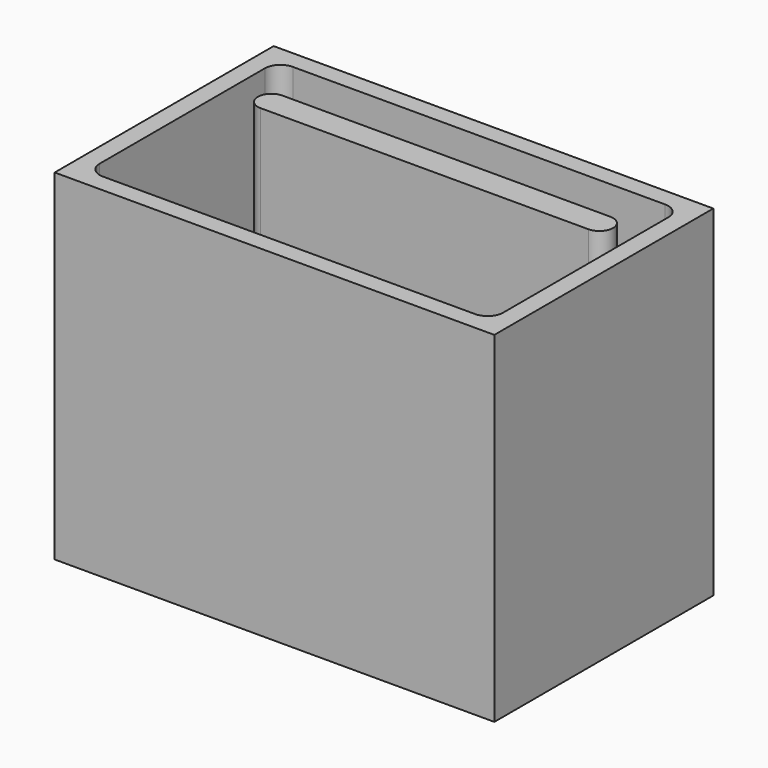
from build123d import *

# Parameters (mm, degrees)
F1_DEPTH = 109.728
F0_W     = 141.5915973485
F0_H     = 88.1492160261


with BuildPart() as f1:
    # F0 (on Top) → F1 (new body)
    with BuildSketch(Plane.XY):
        with BuildLine():
            Line((56.8992830813, 17.6471211016), (-48.7309582531, 17.6471211016))
            ThreePointArc((-48.7309582531, 17.6471211016), (-53.1181711704, 13.2599081844), (-48.7309582531, 8.8726952672))
            Line((-48.7309582531, 8.8726952672), (56.8992830813, 8.8726952672))
            ThreePointArc((56.8992830813, 8.8726952672), (61.2864959985, 13.2599081844), (56.8992830813, 17.6471211016))
        make_face()
    extrude(amount=F1_DEPTH)


with BuildPart() as f1b:
    # F0 (on Top) → F1, piece 2 (new body)
    with BuildSketch(Plane.XY):
        with Locations((3.5321135074, -6.7570824176)):
            Rectangle(F0_W, F0_H)
        with BuildLine():
            ThreePointArc((-61.4280216396, 26.4818620682), (-59.9635555455, 30.0173959741), (-56.4280216396, 31.4818620682))
            Line((-56.4280216396, 31.4818620682), (63.4922486544, 31.4818620682))
            ThreePointArc((63.4922486544, 31.4818620682), (67.0277825603, 30.0173959741), (68.4922486544, 26.4818620682))
            Line((68.4922486544, 26.4818620682), (68.4922486544, -39.9960269034))
            ThreePointArc((68.4922486544, -39.9960269034), (67.0277825603, -43.5315608093), (63.4922486544, -44.9960269034))
            Line((63.4922486544, -44.9960269034), (-56.4280216396, -44.9960269034))
            ThreePointArc((-56.4280216396, -44.9960269034), (-59.9635555455, -43.5315608093), (-61.4280216396, -39.9960269034))
            Line((-61.4280216396, -39.9960269034), (-61.4280216396, 26.4818620682))
        make_face(mode=Mode.SUBTRACT)
    extrude(amount=F1_DEPTH)


solid = Compound([f1.part, f1b.part])
